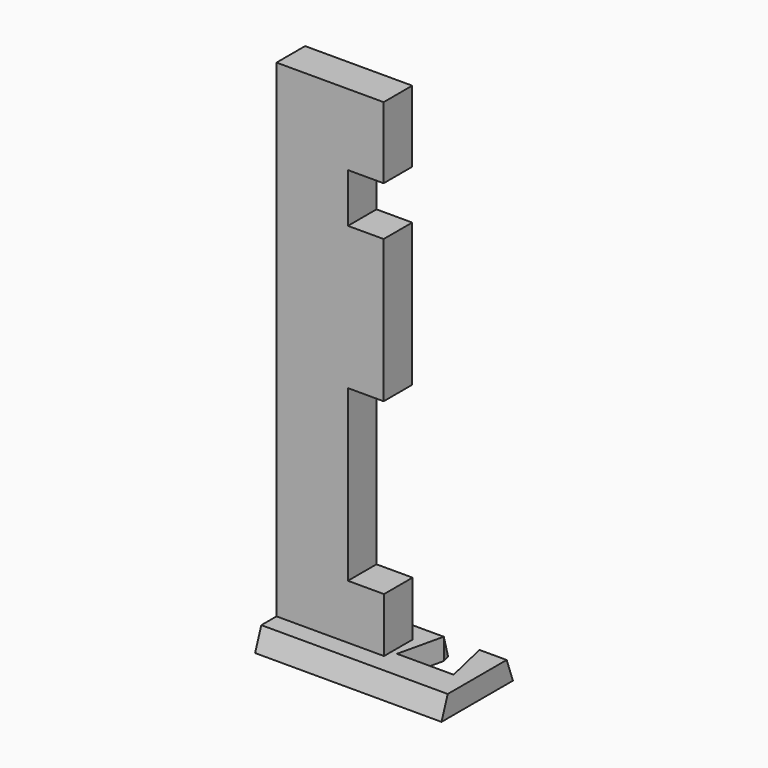
from build123d import *

# Parameters (mm, degrees)
F1_DEPTH  = 12.7
F3_DEPTH  = 38.1
F4_W      = 14.7766079754
F4_H      = 8.8374735788
F5_DEPTH  = 3.175
F7_DEPTH  = 66.675
F8_W      = 12.7
F8_H      = 19.4
F9_DEPTH  = 66.548
F10_DEPTH = 34.925
F11_W     = 34.925
F11_H     = 31.75
F12_DEPTH = 25.4
F13_W     = 3.175
F13_H     = 31.75
F14_DEPTH = 25.4
F15_DEPTH = 3.175
F17_DEPTH = 8.128
F19_DEPTH = 0.381


with BuildPart() as f1:
    # F0 (on Front) → F1 (new body)
    with BuildSketch(Plane.XZ):
        Polygon((0, 173.39), (0, 0), (38.1, 0), (38.1, 19.4), (25.4, 19.4), (25.4, 79.73), (38.1, 79.73), (38.1, 130.53), (25.4, 130.53), (25.4, 147.99), (38.1, 147.99), (38.1, 173.39), align=None)
    extrude(amount=F1_DEPTH)

    # F2 (on face) → F3 (join)
    with BuildSketch(Plane.YZ.offset(38.1)):
        Polygon((0, -7.62), (-2.7734531851, 0), (-9.9265468149, 0), (-12.7, -7.62), align=None)
    extrude(amount=-F3_DEPTH)

    # F4 (on face) → F5 (cut)
    with BuildSketch(Plane(origin=(0, 0, 0), x_dir=(0, -1, 0), z_dir=(-1, 0, 0))):
        with Locations((7.3883039877, -4.4187367894)):
            Rectangle(F4_W, F4_H)
    extrude(amount=-F5_DEPTH, mode=Mode.SUBTRACT)

    # F6 (on face) → F7 (join)
    with BuildSketch(Plane.YZ.offset(38.1)):
        Polygon((-12.7, -7.62), (-9.9265468149, 0), (-12.7, 0), (-19.4515468149, 0), (-22.225, -7.62), align=None)
        Polygon((0, -7.62), (-2.7734531851, 0), (-9.9265468149, 0), (-12.7, -7.62), align=None)
        Polygon((-2.7734531851, 0), (0, 0), (0, 19.4), (-12.7, 19.4), (-12.7, 0), (-9.9265468149, 0), align=None)
        Polygon((6.7515468149, 0), (0, 0), (-2.7734531851, 0), (0, -7.62), (9.525, -7.62), align=None)
    extrude(amount=F7_DEPTH)

    # F8 (on face) → F9 (cut)
    with BuildSketch(Plane.YZ.offset(104.775)):
        with Locations((-6.35, 9.7)):
            Rectangle(F8_W, F8_H)
    extrude(amount=-F9_DEPTH, mode=Mode.SUBTRACT)

    # F6 (on face) → F10 (join)
    with BuildSketch(Plane.YZ.offset(38.1)):
        Polygon((6.7515468149, 0), (0, 0), (-2.7734531851, 0), (0, -7.62), (9.525, -7.62), align=None)
        Polygon((-12.7, -7.62), (-9.9265468149, 0), (-12.7, 0), (-19.4515468149, 0), (-22.225, -7.62), align=None)
    extrude(amount=-F10_DEPTH)

    # F11 (on face) → F12 (cut)
    with BuildSketch(Plane(origin=(0, 0, -7.62), x_dir=(1, 0, 0), z_dir=(0, 0, -1))):
        with Locations((87.3125, 6.35)):
            Rectangle(F11_W, F11_H)
    extrude(amount=-F12_DEPTH, mode=Mode.SUBTRACT)

    # F13 (on face) → F14 (cut)
    with BuildSketch(Plane(origin=(0, 0, -7.62), x_dir=(1, 0, 0), z_dir=(0, 0, -1))):
        with Locations((68.2625, 6.35)):
            Rectangle(F13_W, F13_H)
    extrude(amount=-F14_DEPTH, mode=Mode.SUBTRACT)

    # F15 (add): a face of the model
    f15_faces = [f1.faces().sort_by_distance(p)[0] for p in [
        (3.175, -6.35, -3.9315564286),
    ]]
    extrude(f15_faces, amount=F15_DEPTH)

    # F16 (on face) → F17 (cut)
    with BuildSketch(Plane.XY):
        Polygon((43.9181570547, 6.7515468149), (40.194484, -9.3774531851), (60.325, -9.3774531851), (56.6013269453, 6.7515468149), align=None)
        Polygon((40.194484, 22.8805468149), (43.9181570547, 6.7515468149), (56.6013269453, 6.7515468149), (60.325, 22.8805468149), align=None)
    extrude(amount=-F17_DEPTH, mode=Mode.SUBTRACT)

    # F18 (on face) → F19 (cut)
    with BuildSketch(Plane.YZ.offset(66.675)):
        Polygon((-19.4515468149, 0), (-22.225, -7.62), (9.525, -7.62), (6.7515468149, 0), align=None)
    extrude(amount=-F19_DEPTH, mode=Mode.SUBTRACT)


solid = f1.part
